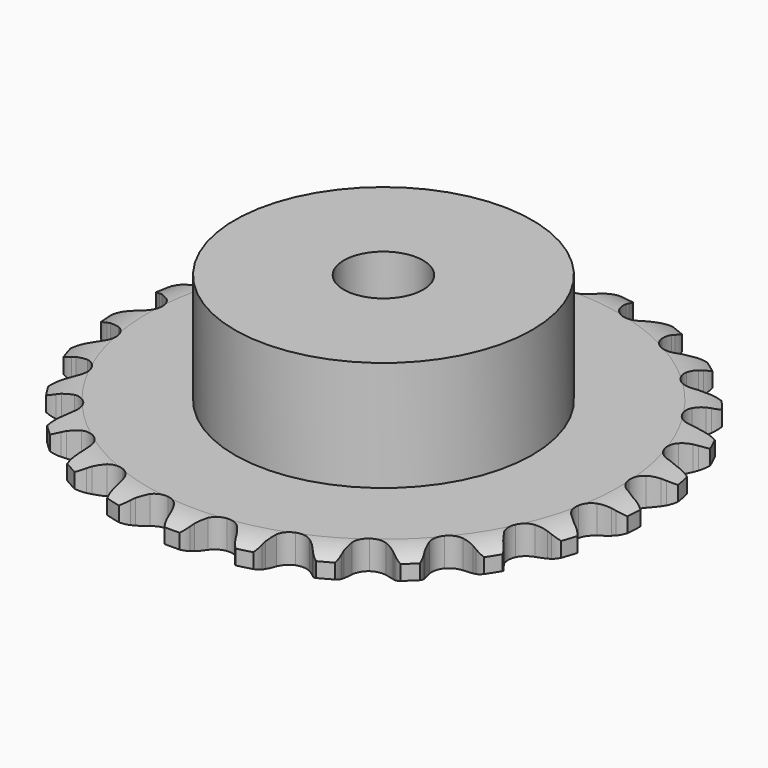
from build123d import *

# Parameters (mm, degrees)
PAD_DEPTH         = 2.9
SKETCH001_R       = 15
PAD001_DEPTH      = 14
SKETCH002_R       = 4
POCKET_DEPTH      = 0.001
POCKET_DEPTH_BACK = 14.001


with BuildPart() as part:
    # Sprocket → Pad (new body)
    with BuildSketch(Plane.XY):
        with BuildLine():
            ThreePointArc((-3.432621, 27.171991), (-2.627719, 26.583395), (-2.093892, 25.741172))
            Line((-2.093892, 25.741172), (-1.933466, 25.336808))
            ThreePointArc((-1.933466, 25.336808), (-1.676167, 24.799301), (-1.347605, 24.302145))
            ThreePointArc((-1.347605, 24.302145), (-0.751604, 23.811712), (0, 23.636117))
            ThreePointArc((0, 23.636117), (0.751604, 23.811712), (1.347605, 24.302145))
            ThreePointArc((1.347605, 24.302145), (1.676167, 24.799301), (1.933466, 25.336808))
            Line((1.933466, 25.336808), (2.093892, 25.741172))
            ThreePointArc((2.093892, 25.741172), (2.627719, 26.583395), (3.432621, 27.171991))
            ThreePointArc((3.432621, 27.171991), (4.065857, 26.401716), (4.373461, 25.453195))
            Line((4.373461, 25.453195), (4.428285, 25.021639))
            ThreePointArc((4.428285, 25.021639), (4.543828, 24.437031), (4.73843, 23.873784))
            ThreePointArc((4.73843, 23.873784), (5.193741, 23.25054), (5.878063, 22.893545))
            ThreePointArc((5.878063, 22.893545), (6.649723, 22.876707), (7.348965, 23.203513))
            Line((7.348965, 23.203513), (8.173731, 24.059972))
            ThreePointArc((8.173731, 24.059972), (8.29729, 24.239066), (8.429678, 24.411736))
            ThreePointArc((8.429678, 24.411736), (9.156186, 25.094742), (10.082178, 25.464675))
            ThreePointArc((10.082178, 25.464675), (10.503961, 24.56112), (10.566013, 23.565901))
            Line((10.566013, 23.565901), (10.511791, 23.134269))
            ThreePointArc((10.511791, 23.134269), (10.478318, 22.539293), (10.526732, 21.945346))
            ThreePointArc((10.526732, 21.945346), (10.812744, 21.22845), (11.386786, 20.712487))
            ThreePointArc((11.386786, 20.712487), (12.130015, 20.504275), (12.888563, 20.646918))
            Line((12.888563, 20.646918), (13.90041, 21.27136))
            ThreePointArc((13.90041, 21.27136), (14.064626, 21.414099), (14.235796, 21.548421))
            ThreePointArc((14.235796, 21.548421), (15.109336, 22.029294), (16.098235, 22.15732))
            ThreePointArc((16.098235, 22.15732), (16.282062, 21.177259), (16.094663, 20.197874))
            Line((16.094663, 20.197874), (15.934802, 19.793287))
            ThreePointArc((15.934802, 19.793287), (15.754417, 19.225327), (15.653601, 18.638001))
            ThreePointArc((15.653601, 18.638001), (15.752343, 17.872499), (16.180035, 17.229988))
            ThreePointArc((16.180035, 17.229988), (16.848134, 16.843483), (17.618325, 16.793002))
            Line((17.618325, 16.793002), (18.753675, 17.146189))
            ThreePointArc((18.753675, 17.146189), (18.94823, 17.243605), (19.147426, 17.331139))
            ThreePointArc((19.147426, 17.331139), (20.113111, 17.579664), (21.102781, 17.457739))
            ThreePointArc((21.102781, 17.457739), (21.037101, 16.462752), (20.612027, 15.560741))
            Line((20.612027, 15.560741), (20.356571, 15.20862))
            ThreePointArc((20.356571, 15.20862), (20.040607, 14.703364), (19.796897, 14.159561))
            ThreePointArc((19.796897, 14.159561), (19.702164, 13.393554), (19.956634, 12.664865))
            ThreePointArc((19.956634, 12.664865), (20.507623, 12.124353), (21.241063, 11.88392))
            Line((21.241063, 11.88392), (22.428577, 11.943661))
            ThreePointArc((22.428577, 11.943661), (22.641246, 11.989632), (22.855954, 12.024878))
            ThreePointArc((22.855954, 12.024878), (23.853105, 12.025439), (24.781361, 11.661223))
            ThreePointArc((24.781361, 11.661223), (24.470302, 10.71383), (23.834261, 9.945869))
            Line((23.834261, 9.945869), (23.499262, 9.66834))
            ThreePointArc((23.499262, 9.66834), (23.067573, 9.257535), (22.69628, 8.791425))
            ThreePointArc((22.69628, 8.791425), (22.414026, 8.073041), (22.479283, 7.303962))
            ThreePointArc((22.479283, 7.303962), (22.878542, 6.643406), (23.529146, 6.228127))
            Line((23.529146, 6.228127), (24.69421, 5.990669))
            ThreePointArc((24.69421, 5.990669), (24.91163, 5.982307), (25.128357, 5.96305))
            ThreePointArc((25.128357, 5.96305), (26.094321, 5.715612), (26.902838, 5.131991))
            ThreePointArc((26.902838, 5.131991), (26.365943, 4.291719), (25.558901, 3.706062))
            Line((25.558901, 3.706062), (25.165408, 3.520562))
            ThreePointArc((25.165408, 3.520562), (24.645118, 3.23002), (24.169573, 2.87089))
            ThreePointArc((24.169573, 2.87089), (23.717532, 2.24527), (23.589476, 1.484124))
            ThreePointArc((23.589476, 1.484124), (23.811919, 0.745029), (24.338807, 0.180998))
            Line((24.338807, 0.180998), (25.408215, -0.33874))
            ThreePointArc((25.408215, -0.33874), (25.616725, -0.400909), (25.821854, -0.473459))
            ThreePointArc((25.821854, -0.473459), (26.695935, -0.953349), (27.33391, -1.719704))
            ThreePointArc((27.33391, -1.719704), (26.604916, -2.400057), (25.677581, -2.766611))
            Line((25.677581, -2.766611), (25.250319, -2.848425))
            ThreePointArc((25.250319, -2.848425), (24.67412, -3.000448), (24.124203, -3.230032))
            ThreePointArc((24.124203, -3.230032), (23.530778, -3.723579), (23.217456, -4.428967))
            ThreePointArc((23.217456, -4.428967), (23.249105, -5.200161), (23.619171, -5.877503))
            Line((23.619171, -5.877503), (24.525728, -6.646864))
            ThreePointArc((24.525728, -6.646864), (24.712226, -6.758934), (24.892869, -6.880218))
            ThreePointArc((24.892869, -6.880218), (25.620145, -7.562406), (26.047492, -8.463343))
            ThreePointArc((26.047492, -8.463343), (25.172204, -8.941028), (24.182844, -9.065448))
            Line((24.182844, -9.065448), (23.748659, -9.038436))
            ThreePointArc((23.748659, -9.038436), (23.152755, -9.042388), (22.563021, -9.128))
            ThreePointArc((22.563021, -9.128), (21.865499, -9.458462), (21.386598, -10.063769))
            ThreePointArc((21.386598, -10.063769), (21.225464, -10.818605), (21.415456, -11.5667))
            Line((21.415456, -11.5667), (22.102199, -12.537341))
            ThreePointArc((22.102199, -12.537341), (22.254968, -12.69227), (22.399773, -12.854668))
            ThreePointArc((22.399773, -12.854668), (22.934547, -13.696291), (23.124414, -14.675199))
            ThreePointArc((23.124414, -14.675199), (22.157829, -14.920202), (21.168611, -14.794669))
            Line((21.168611, -14.794669), (20.754784, -14.660528))
            ThreePointArc((20.754784, -14.660528), (20.176619, -14.516161), (19.58412, -14.452423))
            ThreePointArc((19.58412, -14.452423), (18.82633, -14.599036), (18.211941, -15.066228))
            ThreePointArc((18.211941, -15.066228), (17.868149, -15.757277), (17.866129, -16.529118))
            Line((17.866129, -16.529118), (18.289908, -17.640051))
            ThreePointArc((18.289908, -17.640051), (18.399348, -17.828105), (18.499217, -18.021412))
            ThreePointArc((18.499217, -18.021412), (18.807887, -18.969586), (18.748344, -19.964959))
            ThreePointArc((18.748344, -19.964959), (17.751197, -19.961884), (16.824275, -19.594287))
            Line((16.824275, -19.594287), (16.456809, -19.361445))
            ThreePointArc((16.456809, -19.361445), (15.932711, -19.07783), (15.374678, -18.868746))
            ThreePointArc((15.374678, -18.868746), (14.604234, -18.822298), (13.892961, -19.12202))
            ThreePointArc((13.892961, -19.12202), (13.388113, -19.705861), (13.194207, -20.452951))
            Line((13.194207, -20.452951), (13.328395, -21.634371))
            ThreePointArc((13.328395, -21.634371), (13.387629, -21.843734), (13.436287, -22.055804))
            ThreePointArc((13.436287, -22.055804), (13.499458, -23.050953), (13.194247, -24.000247))
            ThreePointArc((13.194247, -24.000247), (12.229192, -23.749288), (11.422809, -23.162723))
            Line((11.422809, -23.162723), (11.124793, -22.845812))
            ThreePointArc((11.124793, -22.845812), (10.687692, -22.440769), (10.199188, -22.099476))
            ThreePointArc((10.199188, -22.099476), (9.464499, -21.862886), (8.701035, -21.976306))
            ThreePointArc((8.701035, -21.976306), (8.066852, -22.416254), (7.693245, -23.09165))
            Line((7.693245, -23.09165), (7.52941, -24.269325))
            ThreePointArc((7.52941, -24.269325), (7.534716, -24.486841), (7.529106, -24.704349))
            ThreePointArc((7.529106, -24.704349), (7.342809, -25.683944), (6.811107, -26.527511))
            ThreePointArc((6.811107, -26.527511), (5.938782, -26.044437), (5.303605, -25.275761))
            Line((5.303605, -25.275761), (5.093764, -24.894692))
            ThreePointArc((5.093764, -24.894692), (4.771126, -24.393672), (4.382845, -23.941616))
            ThreePointArc((4.382845, -23.941616), (3.730076, -23.529749), (2.962391, -23.449739))
            ThreePointArc((2.962391, -23.449739), (2.238722, -23.718151), (1.708887, -24.279415))
            Line((1.708887, -24.279415), (1.257324, -25.379347))
            ThreePointArc((1.257324, -25.379347), (1.20837, -25.591349), (1.148843, -25.800629))
            ThreePointArc((1.148843, -25.800629), (0.724784, -26.703118), (0, -27.387954))
            ThreePointArc((0, -27.387954), (-0.724784, -26.703118), (-1.148843, -25.800629))
            Line((-1.148843, -25.800629), (-1.257324, -25.379347))
            ThreePointArc((-1.257324, -25.379347), (-1.445227, -24.81383), (-1.708887, -24.279415))
            ThreePointArc((-1.708887, -24.279415), (-2.238722, -23.718151), (-2.962391, -23.449739))
            ThreePointArc((-2.962391, -23.449739), (-3.730076, -23.529749), (-4.382845, -23.941616))
            Line((-4.382845, -23.941616), (-5.093764, -24.894692))
            ThreePointArc((-5.093764, -24.894692), (-5.193903, -25.087859), (-5.303605, -25.275761))
            ThreePointArc((-5.303605, -25.275761), (-5.938782, -26.044437), (-6.811107, -26.527511))
            ThreePointArc((-6.811107, -26.527511), (-7.342809, -25.683944), (-7.529106, -24.704349))
            Line((-7.529106, -24.704349), (-7.52941, -24.269325))
            ThreePointArc((-7.52941, -24.269325), (-7.570771, -23.674845), (-7.693245, -23.09165))
            ThreePointArc((-7.693245, -23.09165), (-8.066852, -22.416254), (-8.701035, -21.976306))
            ThreePointArc((-8.701035, -21.976306), (-9.464499, -21.862886), (-10.199188, -22.099476))
            Line((-10.199188, -22.099476), (-11.124793, -22.845812))
            ThreePointArc((-11.124793, -22.845812), (-11.269824, -23.008007), (-11.422809, -23.162723))
            ThreePointArc((-11.422809, -23.162723), (-12.229192, -23.749288), (-13.194247, -24.000247))
            ThreePointArc((-13.194247, -24.000247), (-13.499458, -23.050953), (-13.436287, -22.055804))
            Line((-13.436287, -22.055804), (-13.328395, -21.634371))
            ThreePointArc((-13.328395, -21.634371), (-13.220616, -21.048282), (-13.194207, -20.452951))
            ThreePointArc((-13.194207, -20.452951), (-13.388113, -19.705861), (-13.892961, -19.12202))
            ThreePointArc((-13.892961, -19.12202), (-14.604234, -18.822298), (-15.374678, -18.868746))
            Line((-15.374678, -18.868746), (-16.456809, -19.361445))
            ThreePointArc((-16.456809, -19.361445), (-16.637621, -19.482477), (-16.824275, -19.594287))
            ThreePointArc((-16.824275, -19.594287), (-17.751197, -19.961884), (-18.748344, -19.964959))
            ThreePointArc((-18.748344, -19.964959), (-18.807887, -18.969586), (-18.499217, -18.021412))
            Line((-18.499217, -18.021412), (-18.289908, -17.640051))
            ThreePointArc((-18.289908, -17.640051), (-18.039761, -17.099178), (-17.866129, -16.529118))
            ThreePointArc((-17.866129, -16.529118), (-17.868149, -15.757277), (-18.211941, -15.066228))
            ThreePointArc((-18.211941, -15.066228), (-18.82633, -14.599036), (-19.58412, -14.452423))
            Line((-19.58412, -14.452423), (-20.754784, -14.660528))
            ThreePointArc((-20.754784, -14.660528), (-20.960014, -14.732791), (-21.168611, -14.794669))
            ThreePointArc((-21.168611, -14.794669), (-22.157829, -14.920202), (-23.124414, -14.675199))
            ThreePointArc((-23.124414, -14.675199), (-22.934547, -13.696291), (-22.399773, -12.854668))
            Line((-22.399773, -12.854668), (-22.102199, -12.537341))
            ThreePointArc((-22.102199, -12.537341), (-21.725401, -12.07567), (-21.415456, -11.5667))
            ThreePointArc((-21.415456, -11.5667), (-21.225464, -10.818605), (-21.386598, -10.063769))
            ThreePointArc((-21.386598, -10.063769), (-21.865499, -9.458462), (-22.563021, -9.128))
            Line((-22.563021, -9.128), (-23.748659, -9.038436))
            ThreePointArc((-23.748659, -9.038436), (-23.965413, -9.05739), (-24.182844, -9.065448))
            ThreePointArc((-24.182844, -9.065448), (-25.172204, -8.941028), (-26.047492, -8.463343))
            ThreePointArc((-26.047492, -8.463343), (-25.620145, -7.562406), (-24.892869, -6.880218))
            Line((-24.892869, -6.880218), (-24.525728, -6.646864))
            ThreePointArc((-24.525728, -6.646864), (-24.045955, -6.293403), (-23.619171, -5.877503))
            ThreePointArc((-23.619171, -5.877503), (-23.249105, -5.200161), (-23.217456, -4.428967))
            ThreePointArc((-23.217456, -4.428967), (-23.530778, -3.723579), (-24.124203, -3.230032))
            Line((-24.124203, -3.230032), (-25.250319, -2.848425))
            ThreePointArc((-25.250319, -2.848425), (-25.464977, -2.812879), (-25.677581, -2.766611))
            ThreePointArc((-25.677581, -2.766611), (-26.604916, -2.400057), (-27.33391, -1.719704))
            ThreePointArc((-27.33391, -1.719704), (-26.695935, -0.953349), (-25.821854, -0.473459))
            Line((-25.821854, -0.473459), (-25.408215, -0.33874))
            ThreePointArc((-25.408215, -0.33874), (-24.855613, -0.115698), (-24.338807, 0.180998))
            ThreePointArc((-24.338807, 0.180998), (-23.811919, 0.745029), (-23.589476, 1.484124))
            ThreePointArc((-23.589476, 1.484124), (-23.717532, 2.24527), (-24.169573, 2.87089))
            Line((-24.169573, 2.87089), (-25.165408, 3.520562))
            ThreePointArc((-25.165408, 3.520562), (-25.364482, 3.608374), (-25.558901, 3.706062))
            ThreePointArc((-25.558901, 3.706062), (-26.365943, 4.291719), (-26.902838, 5.131991))
            ThreePointArc((-26.902838, 5.131991), (-26.094321, 5.715612), (-25.128357, 5.96305))
            Line((-25.128357, 5.96305), (-24.69421, 5.990669))
            ThreePointArc((-24.69421, 5.990669), (-24.103501, 6.069276), (-23.529146, 6.228127))
            ThreePointArc((-23.529146, 6.228127), (-22.878542, 6.643406), (-22.479283, 7.303962))
            ThreePointArc((-22.479283, 7.303962), (-22.414026, 8.073041), (-22.69628, 8.791425))
            Line((-22.69628, 8.791425), (-23.499262, 9.66834))
            ThreePointArc((-23.499262, 9.66834), (-23.670244, 9.802901), (-23.834261, 9.945869))
            ThreePointArc((-23.834261, 9.945869), (-24.470302, 10.71383), (-24.781361, 11.661223))
            ThreePointArc((-24.781361, 11.661223), (-23.853105, 12.025439), (-22.855954, 12.024878))
            Line((-22.855954, 12.024878), (-22.428577, 11.943661))
            ThreePointArc((-22.428577, 11.943661), (-21.836877, 11.872896), (-21.241063, 11.88392))
            ThreePointArc((-21.241063, 11.88392), (-20.507623, 12.124353), (-19.956634, 12.664865))
            ThreePointArc((-19.956634, 12.664865), (-19.702164, 13.393554), (-19.796897, 14.159561))
            Line((-19.796897, 14.159561), (-20.356571, 15.20862))
            ThreePointArc((-20.356571, 15.20862), (-20.488718, 15.381475), (-20.612027, 15.560741))
            ThreePointArc((-20.612027, 15.560741), (-21.037101, 16.462752), (-21.102781, 17.457739))
            ThreePointArc((-21.102781, 17.457739), (-20.113111, 17.579664), (-19.147426, 17.331139))
            Line((-19.147426, 17.331139), (-18.753675, 17.146189))
            ThreePointArc((-18.753675, 17.146189), (-18.198163, 16.930497), (-17.618325, 16.793002))
            ThreePointArc((-17.618325, 16.793002), (-16.848134, 16.843483), (-16.180035, 17.229988))
            ThreePointArc((-16.180035, 17.229988), (-15.752343, 17.872499), (-15.653601, 18.638001))
            Line((-15.653601, 18.638001), (-15.934802, 19.793287))
            ThreePointArc((-15.934802, 19.793287), (-16.019809, 19.993575), (-16.094663, 20.197874))
            ThreePointArc((-16.094663, 20.197874), (-16.282062, 21.177259), (-16.098235, 22.15732))
            ThreePointArc((-16.098235, 22.15732), (-15.109336, 22.029294), (-14.235796, 21.548421))
            Line((-14.235796, 21.548421), (-13.90041, 21.27136))
            ThreePointArc((-13.90041, 21.27136), (-13.41599, 20.924294), (-12.888563, 20.646918))
            ThreePointArc((-12.888563, 20.646918), (-12.130015, 20.504275), (-11.386786, 20.712487))
            ThreePointArc((-11.386786, 20.712487), (-10.812744, 21.22845), (-10.526732, 21.945346))
            Line((-10.526732, 21.945346), (-10.511791, 23.134269))
            ThreePointArc((-10.511791, 23.134269), (-10.544318, 23.349404), (-10.566013, 23.565901))
            ThreePointArc((-10.566013, 23.565901), (-10.503961, 24.56112), (-10.082178, 25.464675))
            ThreePointArc((-10.082178, 25.464675), (-9.156186, 25.094742), (-8.429678, 24.411736))
            Line((-8.429678, 24.411736), (-8.173731, 24.059972))
            ThreePointArc((-8.173731, 24.059972), (-7.790842, 23.60334), (-7.348965, 23.203513))
            ThreePointArc((-7.348965, 23.203513), (-6.649723, 22.876707), (-5.878063, 22.893545))
            ThreePointArc((-5.878063, 22.893545), (-5.193741, 23.25054), (-4.73843, 23.873784))
            Line((-4.73843, 23.873784), (-4.428285, 25.021639))
            ThreePointArc((-4.428285, 25.021639), (-4.406288, 25.238105), (-4.373461, 25.453195))
            ThreePointArc((-4.373461, 25.453195), (-4.065857, 26.401716), (-3.432621, 27.171991))
        make_face()
    extrude(amount=PAD_DEPTH)

    # Sketch → Groove (revolve, cut)
    with BuildSketch(Plane.XZ):
        with BuildLine():
            Line((23.739674, 0), (26.65, 0))
            Line((29.560326, 0), (26.65, 0))
            Line((29.560326, 2.9), (29.560326, 0))
            Line((26.65, 2.9), (29.560326, 2.9))
            Line((23.739674, 2.9), (26.65, 2.9))
            ThreePointArc((26.65, 2.2), (25.236337, 2.72254), (23.739674, 2.9))
            Line((26.65, 0.7), (26.65, 2.2))
            ThreePointArc((23.739674, 0), (25.236337, 0.17746), (26.65, 0.7))
        make_face()
    revolve(axis=Axis((0, 0, 0), (0, 0, 1)), mode=Mode.SUBTRACT)

    # Sketch001 → Pad001 (join)
    with BuildSketch(Plane.XY):
        Circle(SKETCH001_R)
    extrude(amount=PAD001_DEPTH)

    # Sketch002 → Pocket (cut, two sides)
    with BuildSketch(Plane.XY) as pocket_sk:
        Circle(SKETCH002_R)
    extrude(amount=-POCKET_DEPTH, mode=Mode.SUBTRACT)
    extrude(pocket_sk.sketch, amount=POCKET_DEPTH_BACK, mode=Mode.SUBTRACT)


solid = part.part
